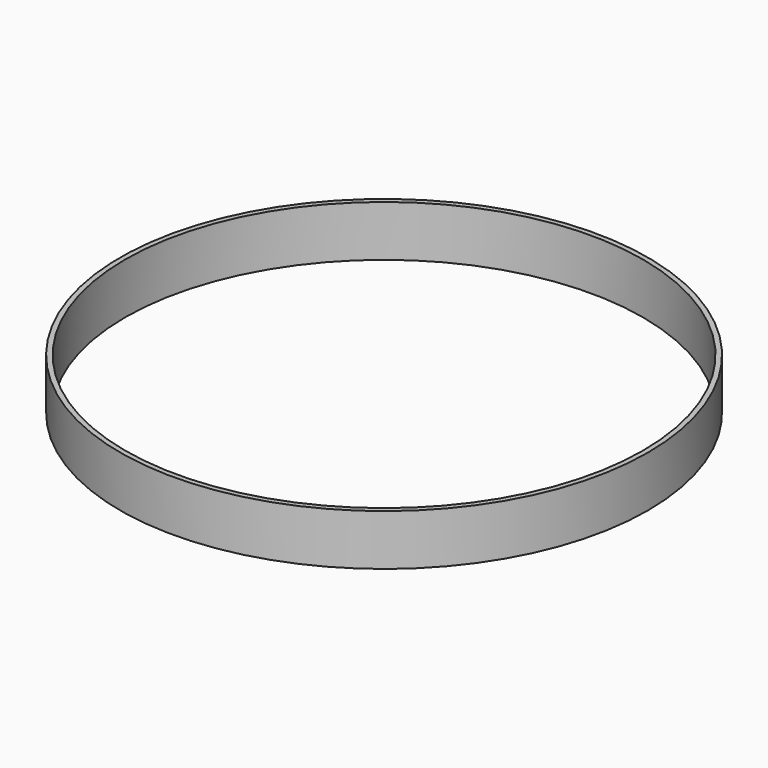
from build123d import *

# Parameters (mm, degrees)
CYLINDER001_R     = 101.6
CYLINDER001_DEPTH = 20
CYLINDER_R        = 103.6
CYLINDER_DEPTH    = 20


with BuildPart() as cylinder001:
    # Cylinder001 → Cylinder001 (new body)
    with BuildSketch(Plane.XY):
        Circle(CYLINDER001_R)
    extrude(amount=CYLINDER001_DEPTH)


with BuildPart() as cut:
    # Cylinder → Cylinder (new body)
    with BuildSketch(Plane.XY):
        Circle(CYLINDER_R)
    extrude(amount=CYLINDER_DEPTH)

    # Cut: cut Cylinder001
    add(cylinder001.part, mode=Mode.SUBTRACT)


solid = cut.part
